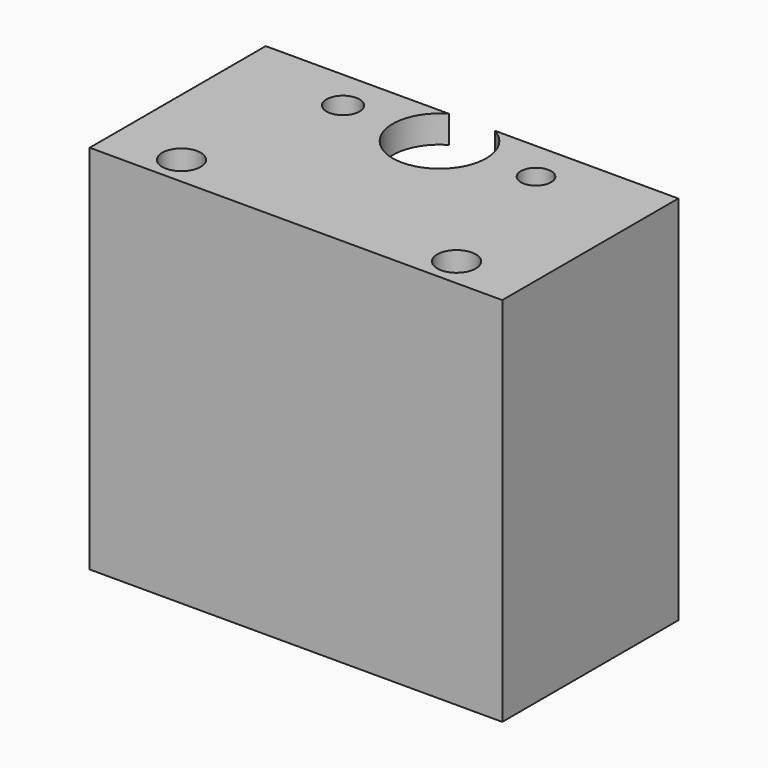
from build123d import *

# Parameters (mm, degrees)
SKETCH004_W     = 30
SKETCH004_H     = 16
PAD003_DEPTH    = 2
SKETCH005_R     = 3.4
POCKET001_DEPTH = 20
PAD004_DEPTH    = 25
SKETCH006_R     = 12.2
POCKET002_DEPTH = 30
SKETCH007_R     = 1.2
SKETCH007_R_2   = 1.1
POCKET003_DEPTH = 5
SKETCH008_R     = 1.4
POCKET004_DEPTH = 50


with BuildPart() as part:
    # Sketch004 → Pad003 (new body)
    with BuildSketch(Plane.XY.offset(30)):
        with Locations((0, -5.045388)):
            Rectangle(SKETCH004_W, SKETCH004_H)
    extrude(amount=PAD003_DEPTH)

    # Sketch005 (on Face3 of Pad) → Pocket001 (cut)
    with BuildSketch(Plane.XY.offset(30)):
        Circle(SKETCH005_R)
    extrude(amount=POCKET001_DEPTH, mode=Mode.SUBTRACT)

    # Sketch004 → Pad004 (join)
    with BuildSketch(Plane.XY.offset(30)):
        with Locations((0, -5.045388)):
            Rectangle(SKETCH004_W, SKETCH004_H)
    extrude(amount=-PAD004_DEPTH)

    # Sketch006 → Pocket002 (cut)
    with BuildSketch(Plane.XY):
        Circle(SKETCH006_R)
    extrude(amount=POCKET002_DEPTH, mode=Mode.SUBTRACT)

    # Sketch007 (on Face5 of Pocket002) → Pocket003 (cut)
    with BuildSketch(Plane.XY.offset(32)):
        with Locations((-7.016269, 0)):
            Circle(SKETCH007_R)
        with Locations((7.016269, 0)):
            Circle(SKETCH007_R_2)
    extrude(amount=-POCKET003_DEPTH, mode=Mode.SUBTRACT)

    # Sketch008 (on Face5 of Pocket003) → Pocket004 (cut)
    with BuildSketch(Plane.XY.offset(32)):
        with Locations((-10, -10.95175)):
            Circle(SKETCH008_R)
        with Locations((10, -10.95175)):
            Circle(SKETCH008_R)
    extrude(amount=-POCKET004_DEPTH, mode=Mode.SUBTRACT)


solid = part.part
